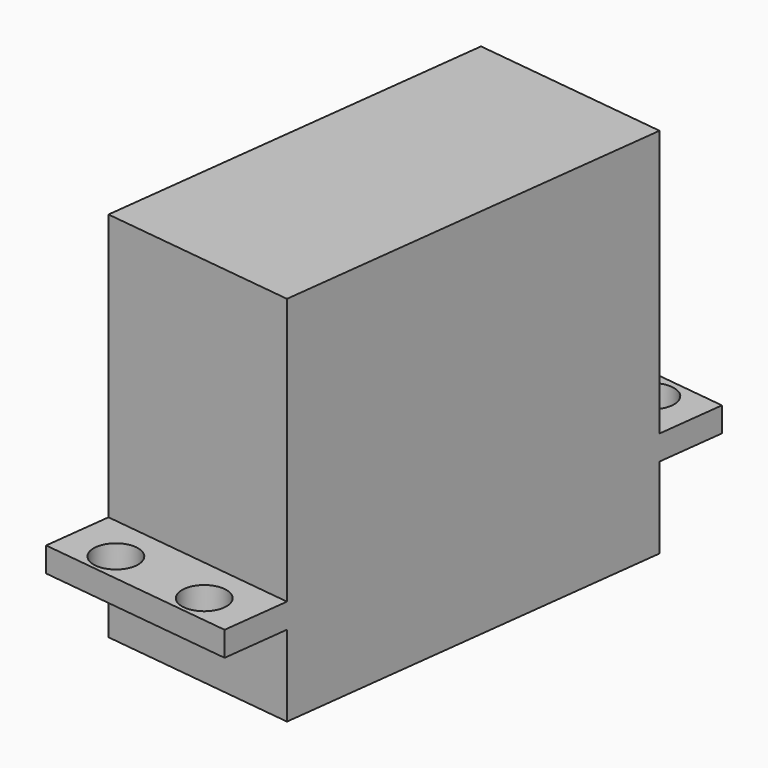
from build123d import *

# Parameters (mm, degrees)
CYLINDER011_R             = 1
CYLINDER011_DEPTH         = 1
CYLINDER003_R             = 2.25
CYLINDER003_DEPTH         = 10
ARRAY_X_COUNT             = 2
ARRAY_X_PITCH             = 49.5
ARRAY_Z_COUNT             = 2
ARRAY_Z_PITCH             = 10
EXTRUDE003_DEPTH          = 20.2
CUT004_ROLL_ANGLE         = -90
CUT004_PLACEMENT_ANGLE    = 90
FUSION002_PLACEMENT_ANGLE = 7


with BuildPart() as cylinder011:
    # Cylinder011 → Cylinder011 (new body)
    with BuildSketch(Plane(origin=(80, 0, -1), x_dir=(1, 0, 0), z_dir=(0, 0, 1))):
        Circle(CYLINDER011_R)
    extrude(amount=CYLINDER011_DEPTH)


with BuildPart() as array:
    # Cylinder003 → Cylinder003 (new body)
    with BuildSketch(Plane.XZ):
        Circle(CYLINDER003_R)
    extrude(amount=CYLINDER003_DEPTH)

    # Array X: Array ×2


with BuildPart() as array_1:
    add(array.part)
    with Locations(*[(i * ARRAY_X_PITCH, 0, 0) for i in range(1, ARRAY_X_COUNT)]):
        add(array.part)

    # Array Z: Array ×2


with BuildPart() as array_2:
    add(array_1.part)
    with Locations(*[(0, 0, i * ARRAY_Z_PITCH) for i in range(1, ARRAY_Z_COUNT)]):
        add(array_1.part)


with BuildPart() as array_3:
    # Array placement: moved
    add(array_2.part.moved(Location((-56.5, 22, 5))))


with BuildPart() as servo_pan:
    # Sketch002 → Extrude003 (new body)
    with BuildSketch(Plane.XY):
        Polygon((-59.135985, 19.221684), (-52.235985, 19.221684), (-52.235985, 27.421684), (-11.035985, 27.421684), (-11.035985, 19.221684), (-4.135985, 19.221684), (-4.135985, 16.721684), (-11.035985, 16.721684), (-11.035985, -10.278316), (-52.235985, -10.278316), (-52.235985, 16.721684), (-59.135985, 16.721684), align=None)
    extrude(amount=EXTRUDE003_DEPTH)

    # Cut004: cut Array
    add(array_3.part, mode=Mode.SUBTRACT)


with BuildPart() as servo_pan_1:
    # Cut004 roll: moved
    add(servo_pan.part.rotate(Axis((0, 0, 0), (1, 0, 0)), CUT004_ROLL_ANGLE))


with BuildPart() as servo_pan_2:
    # Cut004 placement: moved
    add(servo_pan_1.part.moved(Location((90, 21, 27))).rotate(Axis((90, 21, 27), (0, 0, 1)), CUT004_PLACEMENT_ANGLE))

    # Fusion002: union Cylinder011
    add(cylinder011.part)


with BuildPart() as servo_pan_3:
    # Fusion002 placement: moved
    add(servo_pan_2.part.moved(Location((0.6, 9.75, 0))).rotate(Axis((0.6, 9.75, 0), (0, 0, -1)), FUSION002_PLACEMENT_ANGLE))


solid = servo_pan_3.part
